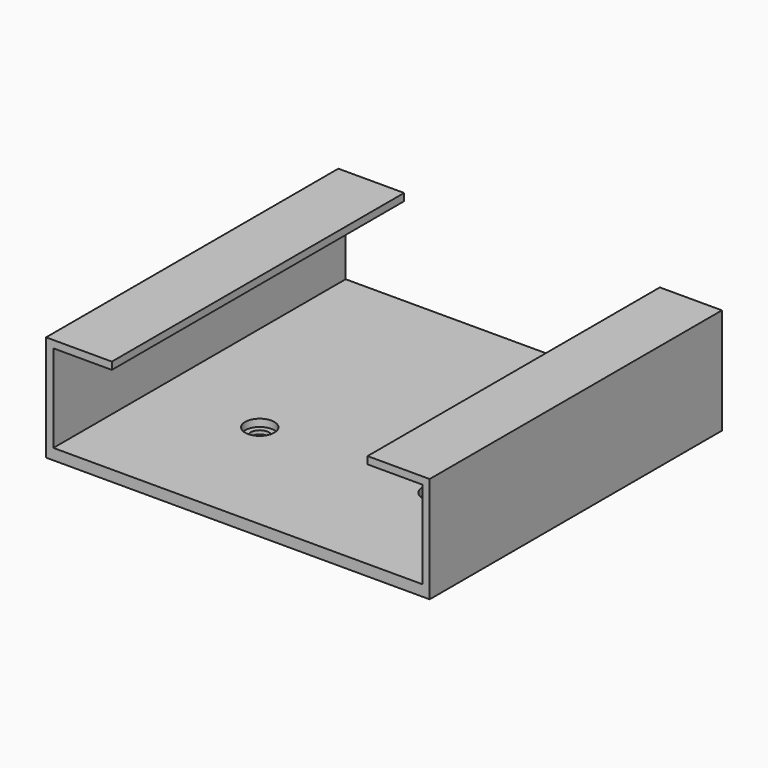
from build123d import *

# Parameters (mm, degrees)
F0_W     = 105
F0_H     = 100
F1_DEPTH = 29
F2_W     = 101
F2_H     = 24
F3_DEPTH = 110
F4_W     = 70
F4_H     = 100
F5_DEPTH = 5
F6_R     = 2.5
F7_DEPTH = 5
F8_R     = 4
F9_DEPTH = 2


with BuildPart() as f1:
    # F0 (on Top) → F1 (new body)
    with BuildSketch(Plane.XY):
        with Locations((15.428911, -27.749735)):
            Rectangle(F0_W, F0_H)
    extrude(amount=F1_DEPTH)

    # F2 (on face) → F3 (cut)
    with BuildSketch(Plane.XZ.offset(77.749735)):
        with Locations((15.428911, 15)):
            Rectangle(F2_W, F2_H)
    extrude(amount=-F3_DEPTH, mode=Mode.SUBTRACT)

    # F4 (on face) → F5 (cut)
    with BuildSketch(Plane.XY.offset(29)):
        with Locations((15.928911, -27.749735)):
            Rectangle(F4_W, F4_H)
    extrude(amount=-F5_DEPTH, mode=Mode.SUBTRACT)

    # F6 (on Top) → F7 (cut)
    with BuildSketch(Plane.XY):
        with Locations((40.928911, -34.749735)):
            Circle(F6_R)
        with Locations((41.928911, -42.749736)):
            Circle(F6_R)
        with Locations((-6.571089, -42.749736)):
            Circle(F6_R)
    extrude(amount=F7_DEPTH, mode=Mode.SUBTRACT)

    # F8 (on face) → F9 (cut)
    with BuildSketch(Plane.XY.offset(3)):
        with Locations((41.928911, -42.741511)):
            Circle(F8_R)
        with Locations((-6.599996, -42.741511)):
            Circle(F8_R)
    extrude(amount=-F9_DEPTH, mode=Mode.SUBTRACT)


solid = f1.part
